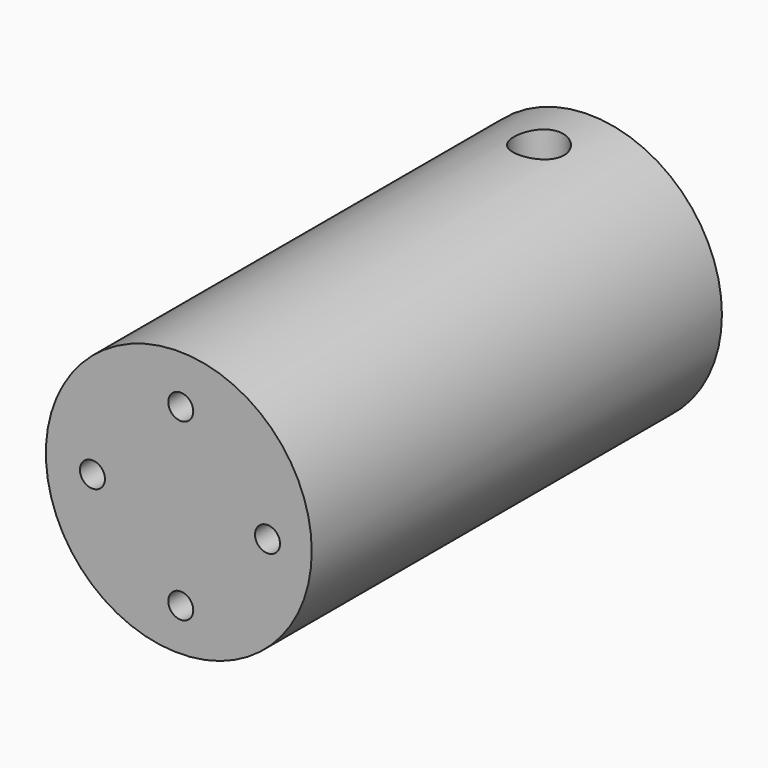
from build123d import *

# Parameters (mm, degrees)
SKETCH_R          = 1
EXTRUDE_DEPTH     = 13
BOX002_W          = 1.6
BOX002_H          = 15
BOX002_DEPTH      = 12
CYLINDER007_R     = 2
CYLINDER007_DEPTH = 22
CYLINDER006_R     = 3.2
CYLINDER006_DEPTH = 15
CYLINDER005_R     = 10.63
CYLINDER005_DEPTH = 41


with BuildPart() as servoholes001:
    # Sketch → Extrude (new body)
    with BuildSketch(Plane.XZ):
        with Locations((11.094024, 19.711318)):
            Circle(SKETCH_R)
        with Locations((25.094024, 19.711318)):
            Circle(SKETCH_R)
        with Locations((18.156256, 26.77355)):
            Circle(SKETCH_R)
        with Locations((18.156256, 12.77355)):
            Circle(SKETCH_R)
    extrude(amount=EXTRUDE_DEPTH)


with BuildPart() as servoholes001_1:
    # Extrude placement: moved
    add(servoholes001.part.moved(Location((0, 32, 0))))


with BuildPart() as slit002:
    # Box002 → Box002 (new body)
    with BuildSketch(Plane(origin=(17.3, 45, 13.8), x_dir=(1, 0, 0), z_dir=(0, 0, 1))):
        with Locations((0.8, 7.5)):
            Rectangle(BOX002_W, BOX002_H)
    extrude(amount=BOX002_DEPTH)


with BuildPart() as bolthole001:
    # Cylinder007 → Cylinder007 (new body)
    with BuildSketch(Plane(origin=(18, 55, 9), x_dir=(1, 0, 0), z_dir=(0, 0, 1))):
        Circle(CYLINDER007_R)
    extrude(amount=CYLINDER007_DEPTH)


with BuildPart() as inner001:
    # Cylinder006 → Cylinder006 (new body)
    with BuildSketch(Plane(origin=(18, 60, 20), x_dir=(1, 0, 0), z_dir=(0, -1, 0))):
        Circle(CYLINDER006_R)
    extrude(amount=CYLINDER006_DEPTH)

    # Fusion003: union slit002, boltHole001
    add(slit002.part)
    add(bolthole001.part)


with BuildPart() as connect001:
    # Cylinder005 → Cylinder005 (new body)
    with BuildSketch(Plane(origin=(18, 60, 20), x_dir=(1, 0, 0), z_dir=(0, -1, 0))):
        Circle(CYLINDER005_R)
    extrude(amount=CYLINDER005_DEPTH)

    # Cut002: cut inner001
    add(inner001.part, mode=Mode.SUBTRACT)

    # Cut003: cut servoHoles001
    add(servoholes001_1.part, mode=Mode.SUBTRACT)


solid = connect001.part
